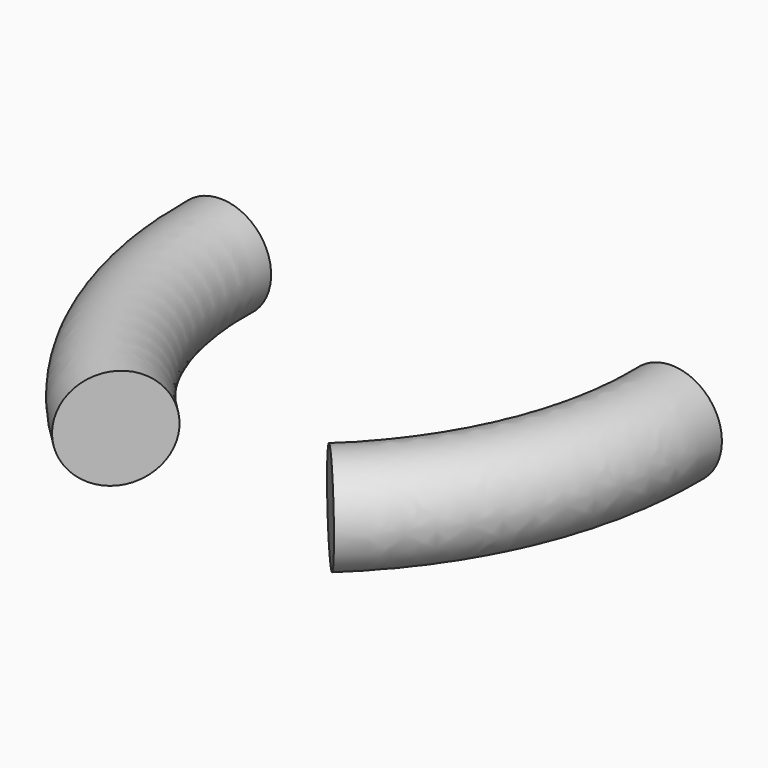
from build123d import *

# Parameters (mm, degrees)
F1_R = 5


with BuildPart() as f2:
    # F2: sweep along a path in F0
    with BuildLine(Plane.XY) as f2_path:
        ThreePointArc((10.421052, -27.34413), (19.13431, -14.910149), (22, 0))
    # F1 (on Front) → F2 (sweep)
    with BuildSketch(Plane.XZ):
        with Locations((22.307554, 0)):
            Circle(F1_R)
    sweep(path=f2_path.line)


with BuildPart() as f3_1:
    # F3: instance of F2
    add(f2.part.mirror(Plane.YZ))


solid = Compound([f2.part, f3_1.part])
